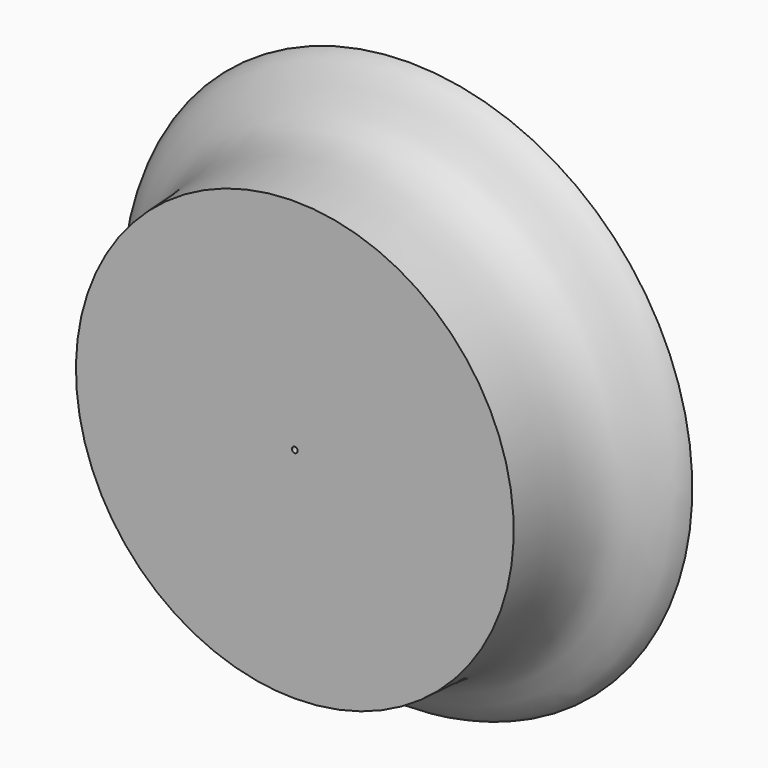
from build123d import *

# Parameters (mm, degrees)
SKETCH032_W   = 5.828926
SKETCH032_H   = 4.647706
SKETCH032_W_2 = 7.405091
SKETCH032_H_2 = 4.530322


with BuildPart() as part:
    # Sketch031 → Revolution006 (revolve)
    with BuildSketch(Plane(origin=(0, 0, -0.01), x_dir=(0, -1, 0), z_dir=(1, 0, 0))):
        with BuildLine():
            add(Edge.make_bspline(
                [(-0.769069, 0.754505), (-0.951665, 0.760534), (-1.141624, 0.77961), (-1.207908, 0.98313), (-1.364894, 0.994421), (-1.864947, 0.98477), (-2.775705, 0.990587), (-2.785126, 0.387148), (-2.848858, 0.260184), (-2.896467, 0.235343), (-2.966179, 0.25)],
                knots=[0, 0, 0, 0, 0.125, 0.25, 0.375, 0.5, 0.625, 0.75, 0.875, 1, 1, 1, 1], degree=3))
            Line((-2.966179, 0.25), (-2.966179, 0))
            Line((-2.966179, 0), (0, 0))
            Line((0, 0), (0, 0.75))
            add(Edge.make_bspline(
                [(-0.769069, 0.754505), (-0.446942, 0.755366), (0, 0.75)],
                knots=[0, 0, 0, 1, 1, 1], degree=2))
        make_face()
    revolution006 = revolve(axis=Axis((0, 0, 0), (0, 1, 0)))

    # Mirrored009: Revolution006 across Sketch031 V_Axis
    add(revolution006.mirror(Plane(origin=(0, 0, -0.01), x_dir=(1, 0, 0), z_dir=(0, -1, 0))))

    # Sketch032 → Groove003 (revolve, cut)
    with BuildSketch(Plane.YZ):
        with Locations((4.184463, 2.323853)):
            Rectangle(SKETCH032_W, SKETCH032_H)
        with Locations((-2.932545, 2.265161)):
            Rectangle(SKETCH032_W_2, SKETCH032_H_2)
    revolve(axis=Axis((0, 0, 0), (0, 1, 0)), mode=Mode.SUBTRACT)


solid = part.part
